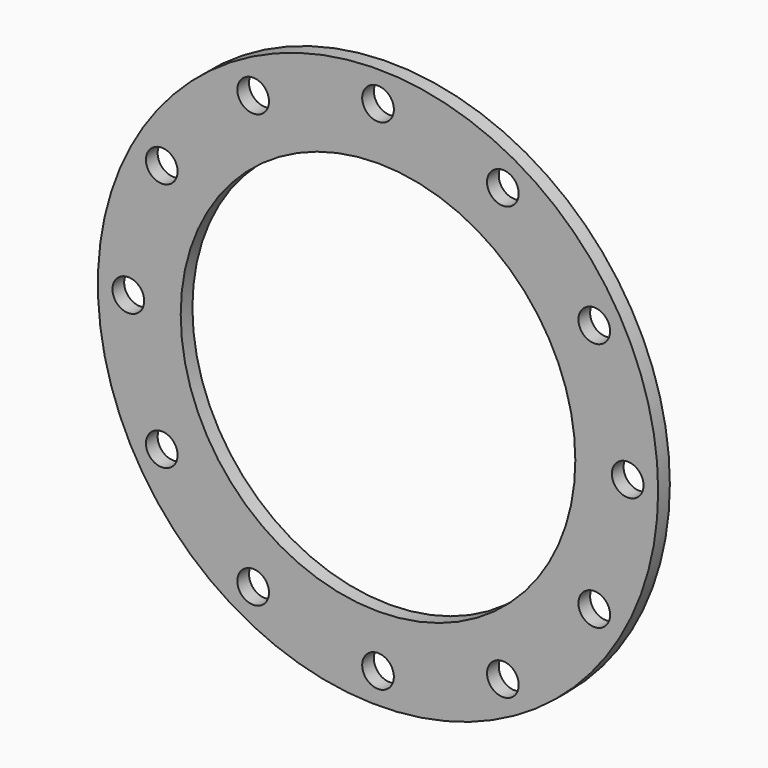
from build123d import *

# Parameters (mm, degrees)
F0_R     = 230
F0_R_2   = 13
F0_R_3   = 162
F1_DEPTH = 12


with BuildPart() as f1:
    # F0 (on Front) → F1 (new body)
    with BuildSketch(Plane.XZ):
        Circle(F0_R)
        with Locations((-102.5, -177.535208)):
            Circle(F0_R_2, mode=Mode.SUBTRACT)
        with Locations((-177.535208, -102.5)):
            Circle(F0_R_2, mode=Mode.SUBTRACT)
        with Locations((0, -205)):
            Circle(F0_R_2, mode=Mode.SUBTRACT)
        with Locations((102.5, -177.535208)):
            Circle(F0_R_2, mode=Mode.SUBTRACT)
        with Locations((177.535208, -102.5)):
            Circle(F0_R_2, mode=Mode.SUBTRACT)
        with Locations((-205, 0)):
            Circle(F0_R_2, mode=Mode.SUBTRACT)
        with Locations((-177.535208, 102.5)):
            Circle(F0_R_2, mode=Mode.SUBTRACT)
        with Locations((-102.5, 177.535208)):
            Circle(F0_R_2, mode=Mode.SUBTRACT)
        Circle(F0_R_3, mode=Mode.SUBTRACT)
        with Locations((205, 0)):
            Circle(F0_R_2, mode=Mode.SUBTRACT)
        with Locations((177.535208, 102.5)):
            Circle(F0_R_2, mode=Mode.SUBTRACT)
        with Locations((0, 205)):
            Circle(F0_R_2, mode=Mode.SUBTRACT)
        with Locations((102.5, 177.535208)):
            Circle(F0_R_2, mode=Mode.SUBTRACT)
    extrude(amount=F1_DEPTH)


solid = f1.part
